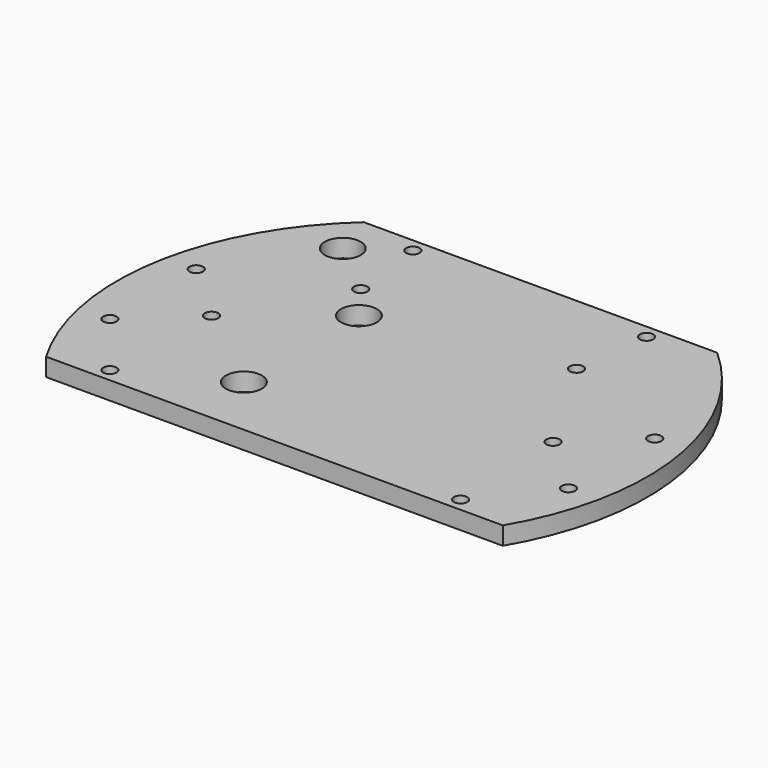
from build123d import *

# Parameters (mm, degrees)
CYLINDER1693_R     = 1.5
CYLINDER1693_DEPTH = 100
CYLINDER1692_R     = 1.5
CYLINDER1692_DEPTH = 100
CYLINDER1691_R     = 1.5
CYLINDER1691_DEPTH = 32
CYLINDER1690_R     = 1.5
CYLINDER1690_DEPTH = 32
BOX542_W           = 200
BOX542_H           = 100
BOX542_DEPTH       = 100
BOX541_W           = 200
BOX541_H           = 100
BOX541_DEPTH       = 100
CYLINDER1683_R     = 4
CYLINDER1683_DEPTH = 100
CYLINDER1684_R     = 4
CYLINDER1684_DEPTH = 100
CYLINDER1685_R     = 4
CYLINDER1685_DEPTH = 100
CYLINDER1686_R     = 4
CYLINDER1686_DEPTH = 100
CYLINDER1687_R     = 4
CYLINDER1687_DEPTH = 100
CYLINDER1688_R     = 4
CYLINDER1688_DEPTH = 100
CYLINDER1689_R     = 4
CYLINDER1689_DEPTH = 100
CYLINDER1682_R     = 4
CYLINDER1682_DEPTH = 100
CYLINDER1675_R     = 1.5
CYLINDER1675_DEPTH = 100
CYLINDER1676_R     = 1.5
CYLINDER1676_DEPTH = 100
CYLINDER1677_R     = 1.5
CYLINDER1677_DEPTH = 100
CYLINDER1678_R     = 1.5
CYLINDER1678_DEPTH = 100
CYLINDER1679_R     = 1.5
CYLINDER1679_DEPTH = 100
CYLINDER1680_R     = 1.5
CYLINDER1680_DEPTH = 100
CYLINDER1681_R     = 1.5
CYLINDER1681_DEPTH = 100
CYLINDER1674_R     = 1.5
CYLINDER1674_DEPTH = 100
CYLINDER1673_R     = 59
CYLINDER1673_DEPTH = 4


with BuildPart() as obj1:
    # Cylinder1693 → Cylinder1693 (new body)
    with BuildSketch(Plane(origin=(14, 0, -60), x_dir=(1, 0, 0), z_dir=(0, 0, 1))):
        Circle(CYLINDER1693_R)
    extrude(amount=CYLINDER1693_DEPTH)


with BuildPart() as obj2:
    # Cylinder1692 → Cylinder1692 (new body)
    with BuildSketch(Plane(origin=(90, 0, -60), x_dir=(1, 0, 0), z_dir=(0, 0, 1))):
        Circle(CYLINDER1692_R)
    extrude(amount=CYLINDER1692_DEPTH)

    # Compound935: union obj1
    add(obj1.part)


with BuildPart() as obj3:
    # Cylinder1691 → Cylinder1691 (new body)
    with BuildSketch(Plane(origin=(78, 41, -42), x_dir=(1, 0, 0), z_dir=(0, 0, 1))):
        Circle(CYLINDER1691_R)
    extrude(amount=CYLINDER1691_DEPTH)


with BuildPart() as compound934:
    # Cylinder1690 → Cylinder1690 (new body)
    with BuildSketch(Plane(origin=(26, 41, -42), x_dir=(1, 0, 0), z_dir=(0, 0, 1))):
        Circle(CYLINDER1690_R)
    extrude(amount=CYLINDER1690_DEPTH)

    # Compound934: union obj3
    add(obj3.part)


with BuildPart() as krychle542:
    # Box542 → Box542 (new body)
    with BuildSketch(Plane(origin=(-60, 44, -90), x_dir=(1, 0, 0), z_dir=(0, 0, 1))):
        with Locations((100, 50)):
            Rectangle(BOX542_W, BOX542_H)
    extrude(amount=BOX542_DEPTH)


with BuildPart() as krychle541:
    # Box541 → Box541 (new body)
    with BuildSketch(Plane(origin=(-60, -130, -90), x_dir=(1, 0, 0), z_dir=(0, 0, 1))):
        with Locations((100, 50)):
            Rectangle(BOX541_W, BOX541_H)
    extrude(amount=BOX541_DEPTH)


with BuildPart() as obj4:
    # Cylinder1683 → Cylinder1683 (new body)
    with BuildSketch(Plane(origin=(-16, 34, -90), x_dir=(1, 0, 0), z_dir=(0, 0, 1))):
        Circle(CYLINDER1683_R)
    extrude(amount=CYLINDER1683_DEPTH)


with BuildPart() as obj5:
    # Cylinder1684 → Cylinder1684 (new body)
    with BuildSketch(Plane(origin=(-16, -34, -90), x_dir=(1, 0, 0), z_dir=(0, 0, 1))):
        Circle(CYLINDER1684_R)
    extrude(amount=CYLINDER1684_DEPTH)


with BuildPart() as obj6:
    # Cylinder1685 → Cylinder1685 (new body)
    with BuildSketch(Plane(origin=(34, -16, -90), x_dir=(1, 0, 0), z_dir=(0, 0, 1))):
        Circle(CYLINDER1685_R)
    extrude(amount=CYLINDER1685_DEPTH)


with BuildPart() as obj7:
    # Cylinder1686 → Cylinder1686 (new body)
    with BuildSketch(Plane(origin=(16, 34, -90), x_dir=(1, 0, 0), z_dir=(0, 0, 1))):
        Circle(CYLINDER1686_R)
    extrude(amount=CYLINDER1686_DEPTH)


with BuildPart() as obj8:
    # Cylinder1687 → Cylinder1687 (new body)
    with BuildSketch(Plane(origin=(16, -34, -90), x_dir=(1, 0, 0), z_dir=(0, 0, 1))):
        Circle(CYLINDER1687_R)
    extrude(amount=CYLINDER1687_DEPTH)


with BuildPart() as obj9:
    # Cylinder1688 → Cylinder1688 (new body)
    with BuildSketch(Plane(origin=(-34, 16, -90), x_dir=(1, 0, 0), z_dir=(0, 0, 1))):
        Circle(CYLINDER1688_R)
    extrude(amount=CYLINDER1688_DEPTH)


with BuildPart() as obj10:
    # Cylinder1689 → Cylinder1689 (new body)
    with BuildSketch(Plane(origin=(34, 16, -90), x_dir=(1, 0, 0), z_dir=(0, 0, 1))):
        Circle(CYLINDER1689_R)
    extrude(amount=CYLINDER1689_DEPTH)


with BuildPart() as obj11:
    # Cylinder1682 → Cylinder1682 (new body)
    with BuildSketch(Plane(origin=(-34, -16, -90), x_dir=(1, 0, 0), z_dir=(0, 0, 1))):
        Circle(CYLINDER1682_R)
    extrude(amount=CYLINDER1682_DEPTH)

    # Compound933: union obj4, obj5, obj6, obj7, obj8, obj9, obj10
    add(obj4.part)
    add(obj5.part)
    add(obj6.part)
    add(obj7.part)
    add(obj8.part)
    add(obj9.part)
    add(obj10.part)


with BuildPart() as obj12:
    # Cylinder1675 → Cylinder1675 (new body)
    with BuildSketch(Plane(origin=(103, 12, -60), x_dir=(1, 0, 0), z_dir=(0, 0, 1))):
        Circle(CYLINDER1675_R)
    extrude(amount=CYLINDER1675_DEPTH)


with BuildPart() as obj13:
    # Cylinder1676 → Cylinder1676 (new body)
    with BuildSketch(Plane(origin=(76, 24, -60), x_dir=(1, 0, 0), z_dir=(0, 0, 1))):
        Circle(CYLINDER1676_R)
    extrude(amount=CYLINDER1676_DEPTH)


with BuildPart() as obj14:
    # Cylinder1677 → Cylinder1677 (new body)
    with BuildSketch(Plane(origin=(91, -27, -60), x_dir=(1, 0, 0), z_dir=(0, 0, 1))):
        Circle(CYLINDER1677_R)
    extrude(amount=CYLINDER1677_DEPTH)


with BuildPart() as obj15:
    # Cylinder1678 → Cylinder1678 (new body)
    with BuildSketch(Plane(origin=(13, -27, -60), x_dir=(1, 0, 0), z_dir=(0, 0, 1))):
        Circle(CYLINDER1678_R)
    extrude(amount=CYLINDER1678_DEPTH)


with BuildPart() as obj16:
    # Cylinder1679 → Cylinder1679 (new body)
    with BuildSketch(Plane(origin=(28, 24, -60), x_dir=(1, 0, 0), z_dir=(0, 0, 1))):
        Circle(CYLINDER1679_R)
    extrude(amount=CYLINDER1679_DEPTH)


with BuildPart() as obj17:
    # Cylinder1680 → Cylinder1680 (new body)
    with BuildSketch(Plane(origin=(1, -12, -60), x_dir=(1, 0, 0), z_dir=(0, 0, 1))):
        Circle(CYLINDER1680_R)
    extrude(amount=CYLINDER1680_DEPTH)


with BuildPart() as obj18:
    # Cylinder1681 → Cylinder1681 (new body)
    with BuildSketch(Plane(origin=(1, 12, -60), x_dir=(1, 0, 0), z_dir=(0, 0, 1))):
        Circle(CYLINDER1681_R)
    extrude(amount=CYLINDER1681_DEPTH)


with BuildPart() as obj19:
    # Cylinder1674 → Cylinder1674 (new body)
    with BuildSketch(Plane(origin=(103, -12, -60), x_dir=(1, 0, 0), z_dir=(0, 0, 1))):
        Circle(CYLINDER1674_R)
    extrude(amount=CYLINDER1674_DEPTH)

    # Compound932: union obj12, obj13, obj14, obj15, obj16, obj17, obj18
    add(obj12.part)
    add(obj13.part)
    add(obj14.part)
    add(obj15.part)
    add(obj16.part)
    add(obj17.part)
    add(obj18.part)


with BuildPart() as cut581:
    # Cylinder1673 → Cylinder1673 (new body)
    with BuildSketch(Plane(origin=(52, 0, -26), x_dir=(1, 0, 0), z_dir=(0, 0, 1))):
        Circle(CYLINDER1673_R)
    extrude(amount=CYLINDER1673_DEPTH)

    # Cut576: cut obj19
    add(obj19.part, mode=Mode.SUBTRACT)

    # Cut577: cut obj11
    add(obj11.part, mode=Mode.SUBTRACT)

    # Cut578: cut Krychle541
    add(krychle541.part, mode=Mode.SUBTRACT)

    # Cut579: cut Krychle542
    add(krychle542.part, mode=Mode.SUBTRACT)

    # Cut580: cut Compound934
    add(compound934.part, mode=Mode.SUBTRACT)

    # Cut581: cut obj2
    add(obj2.part, mode=Mode.SUBTRACT)


solid = cut581.part
